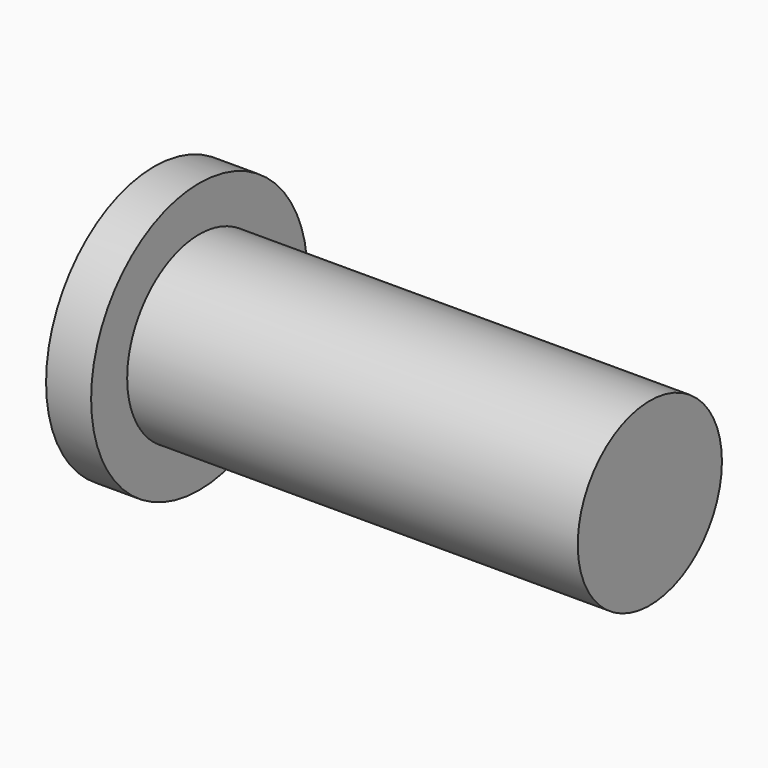
from build123d import *

# Parameters (mm, degrees)
F0_R     = 6.35
F1_DEPTH = 34.925
F2_R     = 9.525
F2_R_2   = 6.35
F3_DEPTH = 3.175


with BuildPart() as f1:
    # F0 (on Right) → F1 (new body)
    with BuildSketch(Plane.YZ):
        Circle(F0_R)
    extrude(amount=F1_DEPTH)


with BuildPart() as f3:
    # F2 (on face) → F3 (new body)
    with BuildSketch(Plane(origin=(0, 0, 0), x_dir=(0, -1, 0), z_dir=(-1, 0, 0))):
        Circle(F2_R)
        Circle(F2_R_2, mode=Mode.SUBTRACT)
    extrude(amount=-F3_DEPTH)


solid = Compound([f1.part, f3.part])
